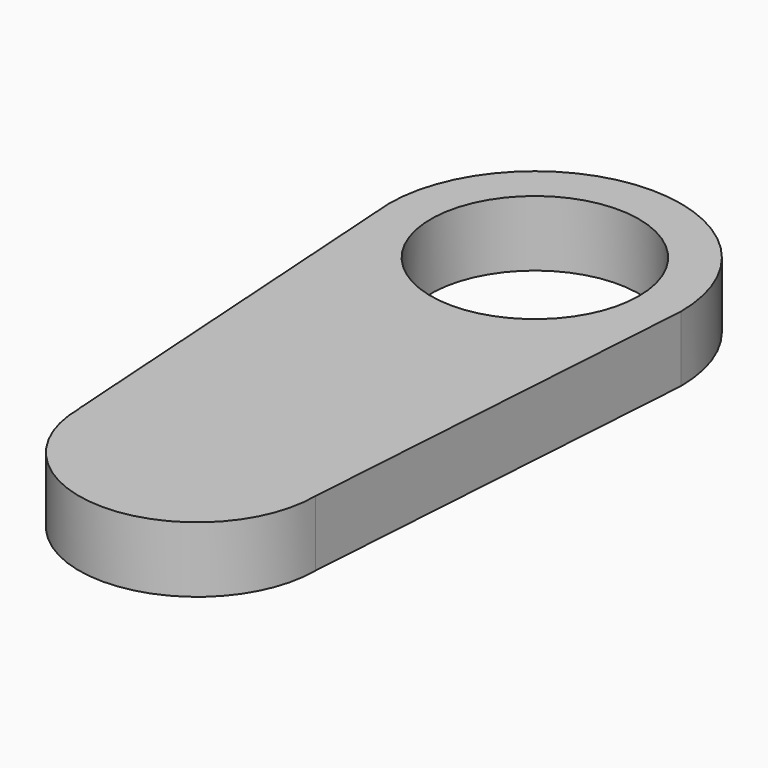
from build123d import *

# Parameters (mm, degrees)
F1_DEPTH = 7


with BuildPart() as f1:
    # F0 (on Top) → F1 (new body)
    with BuildSketch(Plane.XY):
        with BuildLine():
            Line((0, 0), (12.6, 0))
            ThreePointArc((12.6, 0), (8.909545443, 8.909545443), (0, 12.6))
            Line((0, 12.6), (0, 0))
        make_face()
        with BuildLine():
            ThreePointArc((-12.6, 0), (0, -12.6), (12.6, 0))
            Line((12.6, 0), (0, 0))
            Line((0, 0), (-12.6, 0))
        make_face()
        with BuildLine():
            ThreePointArc((0, 12.6), (8.909545443, 8.909545443), (12.6, 0))
            Line((12.6, 0), (15.5728551745, 45))
            ThreePointArc((15.5728551745, 45), (11.0116714964, 56.0116714964), (0, 60.5728551745))
            ThreePointArc((0, 60.5728551745), (-11.0116714964, 56.0116714964), (-15.5728551745, 45))
            Line((-15.5728551745, 45), (-12.6269701008, 0))
            Line((-12.6269701008, 0), (-12.6, 0))
            ThreePointArc((-12.6, 0), (-8.909545443, 8.909545443), (0, 12.6))
        make_face()
        with BuildLine():
            ThreePointArc((11.1, 45), (7.8488852712, 37.1511147288), (0, 33.9))
            ThreePointArc((0, 33.9), (-7.8488852712, 52.8488852712), (11.1, 45))
        make_face(mode=Mode.SUBTRACT)
        with BuildLine():
            Line((0, 0), (0, 12.6))
            ThreePointArc((0, 12.6), (-8.909545443, 8.909545443), (-12.6, 0))
            Line((-12.6, 0), (0, 0))
        make_face()
    extrude(amount=F1_DEPTH)


solid = f1.part
